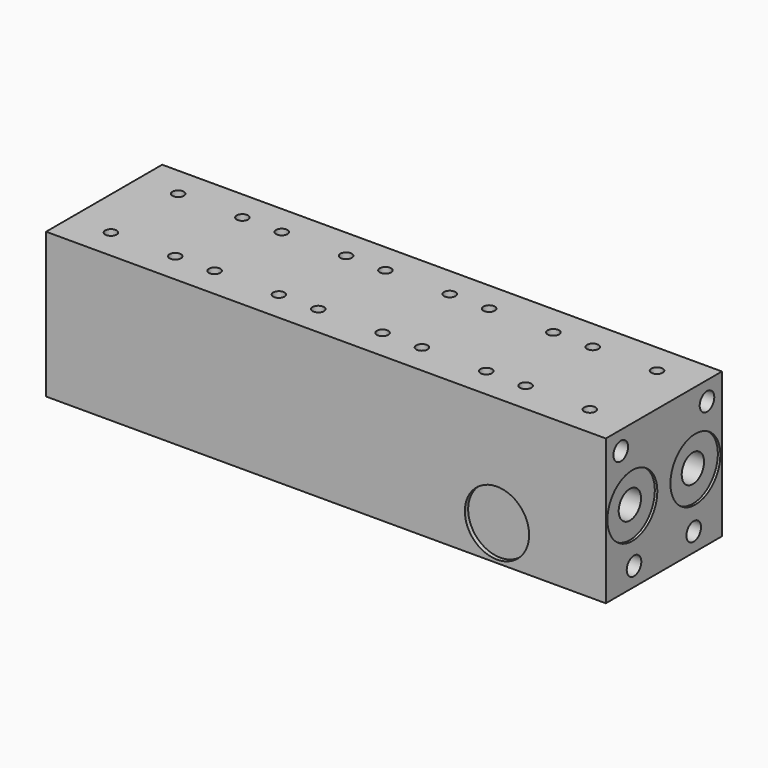
from build123d import *

# Parameters (mm, degrees)
F0_W      = 70
F0_H      = 70
F1_DEPTH  = 270
F3_D      = 13.49248
F4_D      = 8.8
F4_DEPTH  = 20
F4_TIP    = 2.6437867237
F2_R      = 15.05
F5_DEPTH  = 1.2
F7_D      = 8.8
F7_DEPTH  = 20
F7_TIP    = 2.6437867237
F6_R      = 15.05
F8_DEPTH  = 1.2
F10_D     = 5.5
F10_DEPTH = 20
F10_TIP   = 1.6523667023
F12_D     = 8.8
F12_DEPTH = 20
F12_TIP   = 2.6437867237
F14_D     = 10.0838
F14_DEPTH = 40
F14_TIP   = 3.0294791551
F13_R     = 13.75
F15_DEPTH = 1.2
F16_R     = 15.5
F17_DEPTH = 2


with BuildPart() as f1:
    # F0 (on Right) → F1 (new body)
    with BuildSketch(Plane.YZ):
        Rectangle(F0_W, F0_H)
    extrude(amount=F1_DEPTH)

    # F3 (through all)
    with Locations(Plane.YZ.offset(270)):
        with Locations((-19, 0), (19, 0)):
            Hole(F3_D / 2)

    # F4
    with Locations(Plane.YZ.offset(270)):
        with Locations((-26, 26), (26, 25.9378720075), (-18, -26), (18, -26)):
            Hole(F4_D / 2, depth=F4_DEPTH)
            with Locations((0, 0, -(F4_DEPTH + F4_TIP / 2))):  # 118° drill point
                Cone(0, F4_D / 2, F4_TIP, mode=Mode.SUBTRACT)

    # F2 (on face) → F5 (cut)
    with BuildSketch(Plane.YZ.offset(270)):
        with Locations((-19, 0)):
            Circle(F2_R)
        with Locations((19, 0)):
            Circle(F2_R)
    extrude(amount=-F5_DEPTH, mode=Mode.SUBTRACT)

    # F7
    with Locations(Plane(origin=(0, 0, 0), x_dir=(0, -1, 0), z_dir=(-1, 0, 0))):
        with Locations((-26, 25.9378720075), (26, 26), (-18, -26), (18, -26)):
            Hole(F7_D / 2, depth=F7_DEPTH)
            with Locations((0, 0, -(F7_DEPTH + F7_TIP / 2))):  # 118° drill point
                Cone(0, F7_D / 2, F7_TIP, mode=Mode.SUBTRACT)

    # F6 (on face) → F8 (cut)
    with BuildSketch(Plane(origin=(0, 0, 0), x_dir=(0, -1, 0), z_dir=(-1, 0, 0))):
        with Locations((-19, 0)):
            Circle(F6_R)
        with Locations((19, 0)):
            Circle(F6_R)
    extrude(amount=-F8_DEPTH, mode=Mode.SUBTRACT)

    # F10
    with Locations(Plane.XY.offset(35)):
        with Locations((19.5, 20.25), (19.5, -20.25), (50.5, -20.25), (50.5, 20.25), (69.5, 20.25), (69.5, -20.25), (100.5, -20.25), (100.5, 20.25), (119.5, 20.25), (119.5, -20.25), (150.5, -20.25), (169.5, -20.25), (169.5, 20.25), (150.5, 20.25), (200.5, 20.25), (219.5, 20.25), (200.5, -20.25), (219.5, -20.25), (250.5, 20.25), (250.5, -20.25)):
            Hole(F10_D / 2, depth=F10_DEPTH)
            with Locations((0, 0, -(F10_DEPTH + F10_TIP / 2))):  # 118° drill point
                Cone(0, F10_D / 2, F10_TIP, mode=Mode.SUBTRACT)

    # F12
    with Locations(Plane(origin=(0, 0, -35), x_dir=(1, 0, 0), z_dir=(0, 0, -1))):
        with Locations((6, 27), (6, -27), (264, 27), (264, -27)):
            Hole(F12_D / 2, depth=F12_DEPTH)
            with Locations((0, 0, -(F12_DEPTH + F12_TIP / 2))):  # 118° drill point
                Cone(0, F12_D / 2, F12_TIP, mode=Mode.SUBTRACT)

    # F14
    with Locations(Plane(origin=(0, 35, 0), x_dir=(-1, 0, 0), z_dir=(0, 1, 0))):
        with Locations((-235, 19), (-185, 19), (-185, -19), (-235, -19), (-135, -19), (-135, 19), (-85, -19), (-85, 19), (-35, 19), (-35, -19)):
            Hole(F14_D / 2, depth=F14_DEPTH)
            with Locations((0, 0, -(F14_DEPTH + F14_TIP / 2))):  # 118° drill point
                Cone(0, F14_D / 2, F14_TIP, mode=Mode.SUBTRACT)

    # F13 (on face) → F15 (cut)
    with BuildSketch(Plane(origin=(0, 35, 0), x_dir=(-1, 0, 0), z_dir=(0, 1, 0))):
        with Locations((-235, 19)):
            Circle(F13_R)
        with Locations((-235, -19)):
            Circle(F13_R)
        with Locations((-185, 19)):
            Circle(F13_R)
        with Locations((-185, -19)):
            Circle(F13_R)
        with Locations((-135, 19)):
            Circle(F13_R)
        with Locations((-135, -19)):
            Circle(F13_R)
        with Locations((-85, 19)):
            Circle(F13_R)
        with Locations((-85, -19)):
            Circle(F13_R)
        with Locations((-35, 19)):
            Circle(F13_R)
        with Locations((-35, -19)):
            Circle(F13_R)
    extrude(amount=-F15_DEPTH, mode=Mode.SUBTRACT)

    # F16 (on face) → F17 (cut)
    with BuildSketch(Plane.XZ.offset(35)):
        with Locations((217.5, -18)):
            Circle(F16_R)
    extrude(amount=-F17_DEPTH, mode=Mode.SUBTRACT)


solid = f1.part
